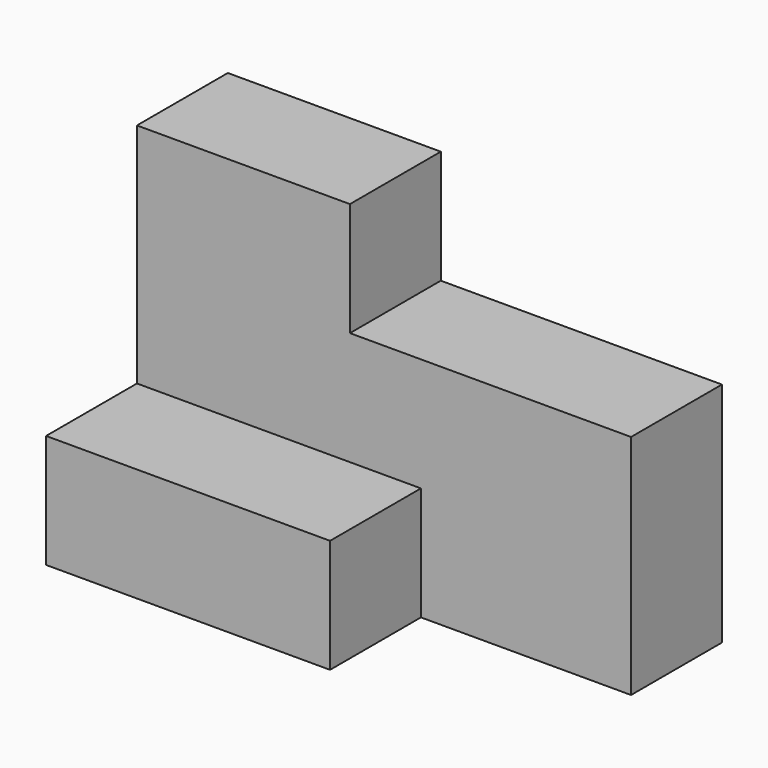
from build123d import *

# Parameters (mm, degrees)
F0_W     = 15
F0_H     = 8
F1_DEPTH = 24
F2_W     = 8
F2_H     = 16
F3_DEPTH = 19.8
F4_W     = 20
F4_H     = 8
F5_DEPTH = 8


with BuildPart() as f1:
    # F0 (on Top) → F1 (new body)
    with BuildSketch(Plane.XY):
        with Locations((7.5, 4)):
            Rectangle(F0_W, F0_H)
    extrude(amount=F1_DEPTH)

    # F2 (on face) → F3 (join)
    with BuildSketch(Plane.YZ.offset(15)):
        with Locations((4, 8)):
            Rectangle(F2_W, F2_H)
    extrude(amount=F3_DEPTH)

    # F4 (on Top) → F5 (join)
    with BuildSketch(Plane.XY):
        with Locations((10, -4)):
            Rectangle(F4_W, F4_H)
    extrude(amount=F5_DEPTH)


solid = f1.part
